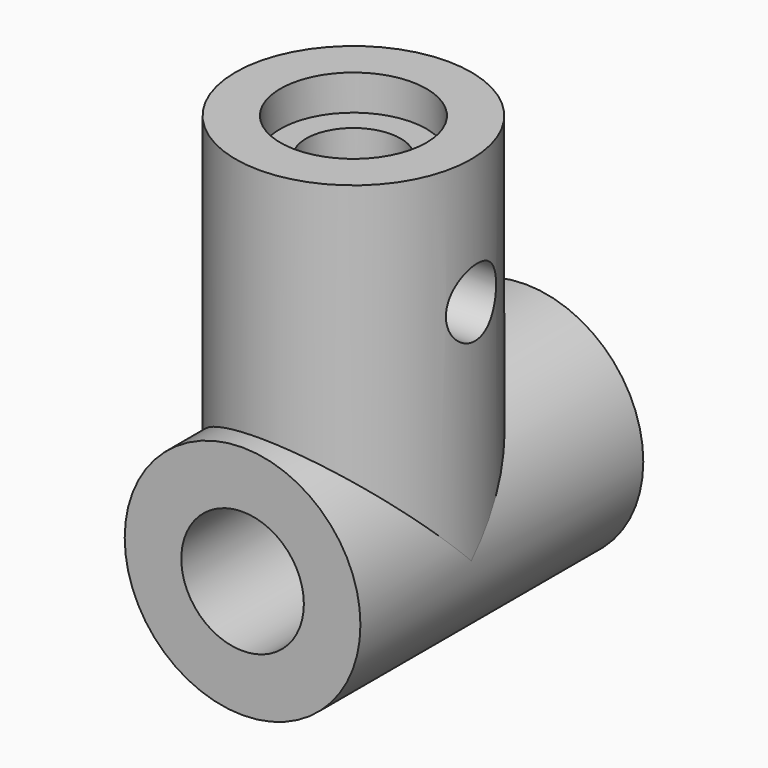
from build123d import *

# Parameters (mm, degrees)
F0_R      = 5
F1_DEPTH  = 15
F2_R      = 5
F4_DEPTH  = 15
F3_R      = 2.6
F5_DEPTH  = 25
F6_R      = 1.5
F7_DEPTH  = 10
F8_R      = 3.1
F9_DEPTH  = 1.5
F10_R     = 1.425
F11_DEPTH = 25
F12_R     = 2
F13_DEPTH = 1.5


with BuildPart() as f1:
    # F0 (on Front) → F1 (new body)
    with BuildSketch(Plane.XZ):
        Circle(F0_R)
    extrude(amount=F1_DEPTH)

    # F2 (on Top) → F4 (join)
    with BuildSketch(Plane.XY):
        with Locations((0, -9.121813)):
            Circle(F2_R)
    extrude(amount=F4_DEPTH)

    # F3 (on Front) → F5 (cut)
    with BuildSketch(Plane.XZ):
        Circle(F3_R)
    extrude(amount=F5_DEPTH, mode=Mode.SUBTRACT)

    # F6 (on face) → F7 (cut)
    with BuildSketch(Plane.XY.offset(15)):
        with Locations((0, -9.121813)):
            Circle(F6_R)
    extrude(amount=-F7_DEPTH, mode=Mode.SUBTRACT)

    # F8 (on face) → F9 (cut)
    with BuildSketch(Plane.XY.offset(15)):
        with Locations((0, -9.121813)):
            Circle(F8_R)
    extrude(amount=-F9_DEPTH, mode=Mode.SUBTRACT)

    # F10 (on Right) → F11 (cut)
    with BuildSketch(Plane.YZ):
        with Locations((-8.868461, 9.550918)):
            Circle(F10_R)
    extrude(amount=F11_DEPTH, mode=Mode.SUBTRACT)

    # F12 (on face) → F13 (cut)
    with BuildSketch(Plane.XY.offset(13.5)):
        with Locations((0, -9.121813)):
            Circle(F12_R)
    extrude(amount=-F13_DEPTH, mode=Mode.SUBTRACT)


solid = f1.part
